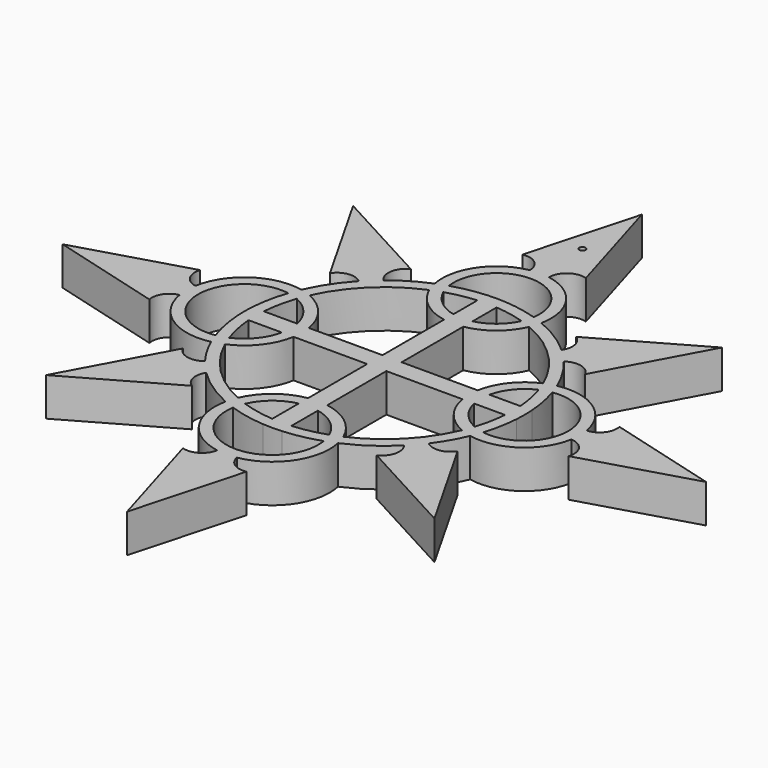
from build123d import *

# Parameters (mm, degrees)
F1_DEPTH = 12.7
F4_D     = 2.0828
F4_DEPTH = 50.8
F4_TIP   = 0.6257362487


with BuildPart() as f1:
    # F0 (on Top) → F1 (new body)
    with BuildSketch(Plane.XY):
        with BuildLine():
            ThreePointArc((31.1281964587, 35.5906996935), (24.7678886808, 40.4200319362), (17.6735225639, 44.086901765))
            ThreePointArc((17.6735225639, 44.086901765), (14.8787565741, 57.7451300482), (3.1750032708, 65.3200937701))
            ThreePointArc((3.1750032708, 65.3200937701), (3.2708e-06, 65.6020612867), (-3.1749967292, 65.3200937701))
            ThreePointArc((-3.1749967292, 65.3200937701), (-14.8787500324, 57.7451300482), (-17.6735160222, 44.086901765))
            ThreePointArc((-17.6735160222, 44.086901765), (-23.6805930271, 41.0858983131), (-29.1914582524, 37.2490558185))
            ThreePointArc((-29.1914582524, 37.2490558185), (-31.5970093681, 35.1605021732), (-33.8535412115, 32.9117699662))
            ThreePointArc((-33.8535412115, 32.9117699662), (-38.7065299111, 26.7643439961), (-42.4561280604, 19.8880907217))
            ThreePointArc((-42.4561280604, 19.8880907217), (-57.1027006821, 17.008893178), (-65.2051905044, 4.4724851303))
            ThreePointArc((-65.2051905044, 4.4724851303), (-65.4880858743, 1.1958843424), (-65.2046872234, -2.0806729542))
            ThreePointArc((-65.2046872234, -2.0806729542), (-57.1014863279, -14.6150135855), (-42.4561280604, -17.4933883058))
            ThreePointArc((-42.4561280604, -17.4933883058), (-39.9577813205, -22.3662283534), (-36.9026220674, -26.9107094569))
            ThreePointArc((-36.9026220674, -26.9107094569), (-34.8383459868, -29.4319852555), (-32.6021652444, -31.8021251409))
            ThreePointArc((-32.6021652444, -31.8021251409), (-26.0486714768, -37.1866737905), (-18.6243131757, -41.287959996))
            ThreePointArc((-18.6243131757, -41.287959996), (-15.7484636284, -55.8718618004), (-3.2625257834, -63.937967341))
            ThreePointArc((-3.2625257834, -63.937967341), (0.0012853497, -64.2197362686), (3.2650584845, -63.937527542))
            ThreePointArc((3.2650584845, -63.937527542), (15.7491897713, -55.8708007159), (18.6243197174, -41.287959996))
            ThreePointArc((18.6243197174, -41.287959996), (26.1669986144, -37.1061105923), (32.8052081143, -31.6002914874))
            ThreePointArc((32.8052081143, -31.6002914874), (35.0045600729, -29.2418970463), (37.0347480062, -26.7364010208))
            ThreePointArc((37.0347480062, -26.7364010208), (40.2161789164, -21.9224681607), (42.7753521035, -16.7508064533))
            ThreePointArc((42.7753521035, -16.7508064533), (56.7064895142, -13.9262246299), (64.4176888163, -1.9850246334))
            ThreePointArc((64.4176888163, -1.9850246334), (64.6963947551, 1.197460092), (64.417650962, 4.379941502))
            ThreePointArc((64.417650962, 4.379941502), (56.7063995697, 16.3209884112), (42.7753521035, 19.1455088692))
            ThreePointArc((42.7753521035, 19.1455088692), (39.6453750231, 25.2828516141), (35.6409398711, 30.8889404118))
            ThreePointArc((35.6409398711, 30.8889404118), (33.467238117, 33.3191665822), (31.1281964587, 35.5906996935))
        make_face()
        with BuildLine():
            ThreePointArc((15.012717429, -42.6943934008), (3.2708e-06, -60.4097363118), (-15.0127108873, -42.6943934008))
            ThreePointArc((-15.0127108873, -42.6943934008), (-9.1718833532, -44.2750945911), (-3.1749967292, -45.082084897))
            ThreePointArc((-3.1749967292, -45.082084897), (3.2708e-06, -45.1908674601), (3.1750032708, -45.082084897))
            ThreePointArc((3.1750032708, -45.082084897), (9.1718898949, -44.2750945911), (15.012717429, -42.6943934008))
        make_face(mode=Mode.SUBTRACT)
        with BuildLine():
            ThreePointArc((-3.1749967292, -41.2623247204), (-8.6198077582, -40.4992141514), (-13.9208923822, -39.0408566194))
            ThreePointArc((-13.9208923822, -39.0408566194), (-9.5988527699, -33.3808745798), (-3.1749967292, -30.3068712184))
            Line((-3.1749967292, -30.3068712184), (-3.1749967292, -41.2623247204))
        make_face(mode=Mode.SUBTRACT)
        with BuildLine():
            ThreePointArc((-43.8683930409, -13.883452359), (-61.6780859306, 1.1973512079), (-43.8683930409, 16.2781547748))
            ThreePointArc((-43.8683930409, 16.2781547748), (-45.4653127624, 10.4045152224), (-46.2794328341, 4.3723512079))
            ThreePointArc((-46.2794328341, 4.3723512079), (-46.3882153972, 1.1973512079), (-46.2794328341, -1.9776487921))
            ThreePointArc((-46.2794328341, -1.9776487921), (-45.4653127624, -8.0098128065), (-43.8683930409, -13.883452359))
        make_face(mode=Mode.SUBTRACT)
        with BuildLine():
            ThreePointArc((-31.4316276871, -1.9776487921), (-34.520191363, -8.4426771351), (-40.2148562596, -12.7908501735))
            ThreePointArc((-40.2148562596, -12.7908501735), (-41.6893363061, -7.4573394613), (-42.4596726575, -1.9776487921))
            Line((-42.4596726575, -1.9776487921), (-31.4316276871, -1.9776487921))
        make_face(mode=Mode.SUBTRACT)
        with BuildLine():
            Line((-27.55408602, -1.9776487921), (-3.1749967292, -1.9776487921))
            Line((-3.1749967292, -1.9776487921), (-3.1749967292, -26.4287453846))
            ThreePointArc((-3.1749967292, -26.4287453846), (-11.7424779362, -30.2171576701), (-17.4641886698, -37.6344232146))
            ThreePointArc((-17.4641886698, -37.6344232146), (-30.0822276713, -28.9350912169), (-38.8025912791, -16.3315780558))
            ThreePointArc((-38.8025912791, -16.3315780558), (-31.3545975686, -10.5837942958), (-27.55408602, -1.9776487921))
        make_face(mode=Mode.SUBTRACT)
        with BuildLine():
            ThreePointArc((3.1750032708, -30.3068712184), (9.5988593116, -33.3808745798), (13.9208989239, -39.0408566194))
            ThreePointArc((13.9208989239, -39.0408566194), (8.6198142999, -40.4992141514), (3.1750032708, -41.2623247204))
            Line((3.1750032708, -41.2623247204), (3.1750032708, -30.3068712184))
        make_face(mode=Mode.SUBTRACT)
        with BuildLine():
            Line((3.1750032708, -1.9776487921), (28.3574547095, -1.9776487921))
            ThreePointArc((28.3574547095, -1.9776487921), (32.0206535097, -10.1499907414), (39.1218153222, -15.60706865))
            ThreePointArc((39.1218153222, -15.60706865), (30.3610811375, -28.6541086512), (17.4641952115, -37.6344232146))
            ThreePointArc((17.4641952115, -37.6344232146), (11.7424844779, -30.2171576701), (3.1750032708, -26.4287453846))
            Line((3.1750032708, -26.4287453846), (3.1750032708, -1.9776487921))
        make_face(mode=Mode.SUBTRACT)
        with BuildLine():
            ThreePointArc((40.4690558549, -12.0374698294), (35.1652441335, -7.9809811133), (32.2419719051, -1.9776487921))
            Line((32.2419719051, -1.9776487921), (42.4596791992, -1.9776487921))
            ThreePointArc((42.4596791992, -1.9776487921), (41.7683346117, -7.0677078931), (40.4690558549, -12.0374698294))
        make_face(mode=Mode.SUBTRACT)
        with BuildLine():
            ThreePointArc((44.1225926363, 15.5174049397), (60.8863947554, 1.1973512079), (44.1225926363, -13.1227025239))
            ThreePointArc((44.1225926363, -13.1227025239), (45.5432201967, -7.6164007306), (46.2794393758, -1.9776487921))
            ThreePointArc((46.2794393758, -1.9776487921), (46.3882219389, 1.1973512079), (46.2794393758, 4.3723512079))
            ThreePointArc((46.2794393758, 4.3723512079), (45.5432201967, 10.0111031465), (44.1225926363, 15.5174049397))
        make_face(mode=Mode.SUBTRACT)
        with BuildLine():
            ThreePointArc((-40.2148562596, 15.1855525894), (-34.520191363, 10.8373795509), (-31.4316276871, 4.3723512079))
            Line((-31.4316276871, 4.3723512079), (-42.4596726575, 4.3723512079))
            ThreePointArc((-42.4596726575, 4.3723512079), (-41.6893363061, 9.8520418772), (-40.2148562596, 15.1855525894))
        make_face(mode=Mode.SUBTRACT)
        with BuildLine():
            Line((-3.1749967292, 4.3723512079), (-27.55408602, 4.3723512079))
            ThreePointArc((-27.55408602, 4.3723512079), (-31.3545975686, 12.9784967117), (-38.8025912791, 18.7262804717))
            ThreePointArc((-38.8025912791, 18.7262804717), (-29.7218728458, 31.6852961214), (-16.5360158369, 40.4333649836))
            ThreePointArc((-16.5360158369, 40.4333649836), (-11.18603434, 33.4623080246), (-3.1749967292, 29.8510459818))
            Line((-3.1749967292, 29.8510459818), (-3.1749967292, 4.3723512079))
        make_face(mode=Mode.SUBTRACT)
        with BuildLine():
            ThreePointArc((-12.9556162863, 41.7566488699), (-8.1210854008, 42.9939135513), (-3.1749967292, 43.6570271363))
            Line((-3.1749967292, 43.6570271363), (-3.1749967292, 33.7384122902))
            ThreePointArc((-3.1749967292, 33.7384122902), (-9.0067859065, 36.5991169944), (-12.9556162863, 41.7566488699))
        make_face(mode=Mode.SUBTRACT)
        with BuildLine():
            ThreePointArc((-14.0389461798, 45.4101856512), (3.2708e-06, 61.7920612867), (14.0389527215, 45.4101856512))
            ThreePointArc((14.0389527215, 45.4101856512), (8.6687819928, 46.768384844), (3.1750032708, 47.4767873129))
            ThreePointArc((3.1750032708, 47.4767873129), (3.2708e-06, 47.5855698759), (-3.1749967292, 47.4767873129))
            ThreePointArc((-3.1749967292, 47.4767873129), (-8.6687754511, 46.768384844), (-14.0389461798, 45.4101856512))
        make_face(mode=Mode.SUBTRACT)
        with BuildLine():
            Line((3.1750032708, 4.3723512079), (3.1750032708, 29.8510459818))
            ThreePointArc((3.1750032708, 29.8510459818), (11.1860408817, 33.4623080246), (16.5360223786, 40.4333649836))
            ThreePointArc((16.5360223786, 40.4333649836), (30.0040470609, 31.4076484786), (39.1218153222, 18.0017710658))
            ThreePointArc((39.1218153222, 18.0017710658), (32.0206535097, 12.5446931572), (28.3574547095, 4.3723512079))
            Line((28.3574547095, 4.3723512079), (3.1750032708, 4.3723512079))
        make_face(mode=Mode.SUBTRACT)
        with BuildLine():
            Line((42.4596791992, 4.3723512079), (32.2419719051, 4.3723512079))
            ThreePointArc((32.2419719051, 4.3723512079), (35.1652441335, 10.3756835291), (40.4690558549, 14.4321722452))
            ThreePointArc((40.4690558549, 14.4321722452), (41.7683346117, 9.462410309), (42.4596791992, 4.3723512079))
        make_face(mode=Mode.SUBTRACT)
        with BuildLine():
            Line((3.1750032708, 33.7384122902), (3.1750032708, 43.6570271363))
            ThreePointArc((3.1750032708, 43.6570271363), (8.1210919425, 42.9939135513), (12.955622828, 41.7566488699))
            ThreePointArc((12.955622828, 41.7566488699), (9.0067924482, 36.5991169944), (3.1750032708, 33.7384122902))
        make_face(mode=Mode.SUBTRACT)
        with BuildLine():
            ThreePointArc((-3.1749967292, 65.3200937701), (3.2708e-06, 65.6020612867), (3.1750032708, 65.3200937701))
            ThreePointArc((3.1750032708, 65.3200937701), (5.6182716942, 70.1017877361), (10.9247490764, 70.9236487746))
            Line((10.9247490764, 70.9236487746), (0, 107.7244877815))
            Line((0, 107.7244877815), (-10.1180002093, 70.9236487746))
            ThreePointArc((-10.1180002093, 70.9236487746), (-5.307305396, 69.7811790084), (-3.1749967292, 65.3200937701))
        make_face()
        with BuildLine():
            ThreePointArc((29.5121033565, 43.6585935765), (32.0266591459, 39.9664803091), (31.1281964587, 35.5906996935))
            ThreePointArc((31.1281964587, 35.5906996935), (33.467238117, 33.3191665822), (35.6409398711, 30.8889404118))
            ThreePointArc((35.6409398711, 30.8889404118), (40.5048761182, 31.860617973), (44.3915740712, 28.7791228618))
            Line((44.3915740712, 28.7791228618), (62.6887327317, 62.5262098316))
            Line((62.6887327317, 62.5262098316), (29.5121033565, 43.6585935765))
        make_face()
        with BuildLine():
            ThreePointArc((-33.8535412115, 32.9117699662), (-31.5970093681, 35.1605021732), (-29.1914582524, 37.2490558185))
            ThreePointArc((-29.1914582524, 37.2490558185), (-30.7363158173, 42.3269608543), (-27.5766573457, 46.591730812))
            Line((-27.5766573457, 46.591730812), (-61.3237443155, 64.8888894725))
            Line((-61.3237443155, 64.8888894725), (-42.4561280604, 31.7122600973))
            ThreePointArc((-42.4561280604, 31.7122600973), (-38.4297374534, 34.283549759), (-33.8535412115, 32.9117699662))
        make_face()
        with BuildLine():
            ThreePointArc((69.7263008376, 11.3153546881), (68.6749922018, 6.6206336312), (64.417650962, 4.379941502))
            ThreePointArc((64.417650962, 4.379941502), (64.6963947551, 1.197460092), (64.4176888163, -1.9850246334))
            ThreePointArc((64.4176888163, -1.9850246334), (68.9893815081, -4.5415395556), (69.7263008376, -9.7273945976))
            Line((69.7263008376, -9.7273945976), (106.5271398445, 1.1973544788))
            Line((106.5271398445, 1.1973544788), (69.7263008376, 11.3153546881))
        make_face()
        with BuildLine():
            ThreePointArc((-65.2046872234, -2.0806729542), (-65.4880858743, 1.1958843424), (-65.2051905044, 4.4724851303))
            ThreePointArc((-65.2051905044, 4.4724851303), (-69.20258282, 7.2707767954), (-69.7262942959, 12.1220970134))
            Line((-69.7262942959, 12.1220970134), (-106.5271333028, 1.1973479371))
            Line((-106.5271333028, 1.1973479371), (-69.7262942959, -8.9206522723))
            ThreePointArc((-69.7262942959, -8.9206522723), (-68.9050312781, -4.5490461994), (-65.2046872234, -2.0806729542))
        make_face()
        with BuildLine():
            ThreePointArc((45.5974415181, -25.50215458), (41.5972376348, -28.069731269), (37.0347480062, -26.7364010208))
            ThreePointArc((37.0347480062, -26.7364010208), (35.0045600729, -29.2418970463), (32.8052081143, -31.6002914874))
            ThreePointArc((32.8052081143, -31.6002914874), (33.803902211, -36.4763961924), (30.7179708034, -40.3816252947))
            Line((30.7179708034, -40.3816252947), (64.4650577732, -58.6787839552))
            Line((64.4650577732, -58.6787839552), (45.5974415181, -25.50215458))
        make_face()
        with BuildLine():
            ThreePointArc((-32.6021652444, -31.8021251409), (-34.8383459868, -29.4319852555), (-36.9026220674, -26.9107094569))
            ThreePointArc((-36.9026220674, -26.9107094569), (-41.8334906919, -28.0375820861), (-45.8255806309, -24.9316965066))
            Line((-45.8255806309, -24.9316965066), (-64.1227392913, -58.6787834764))
            Line((-64.1227392913, -58.6787834764), (-30.9461099161, -39.8111672213))
            ThreePointArc((-30.9461099161, -39.8111672213), (-33.4535714758, -36.1539081162), (-32.6021652444, -31.8021251409))
        make_face()
        with BuildLine():
            ThreePointArc((10.118006751, -68.5289463588), (5.7168444851, -67.6880132659), (3.2650584845, -63.937527542))
            ThreePointArc((3.2650584845, -63.937527542), (0.0012853497, -64.2197362686), (-3.2625257834, -63.937967341))
            ThreePointArc((-3.2625257834, -63.937967341), (-6.042913998, -67.9870796802), (-10.9247425347, -68.5289463588))
            Line((-10.9247425347, -68.5289463588), (6.5417e-06, -105.3297853657))
            Line((6.5417e-06, -105.3297853657), (10.118006751, -68.5289463588))
        make_face()
    extrude(amount=F1_DEPTH)

    # F4
    with Locations(Plane.XY.offset(12.954)):
        with Locations((0, 83.1433087587)):
            Hole(F4_D / 2, depth=F4_DEPTH)
            with Locations((0, 0, -(F4_DEPTH + F4_TIP / 2))):  # 118° drill point
                Cone(0, F4_D / 2, F4_TIP, mode=Mode.SUBTRACT)


solid = f1.part
